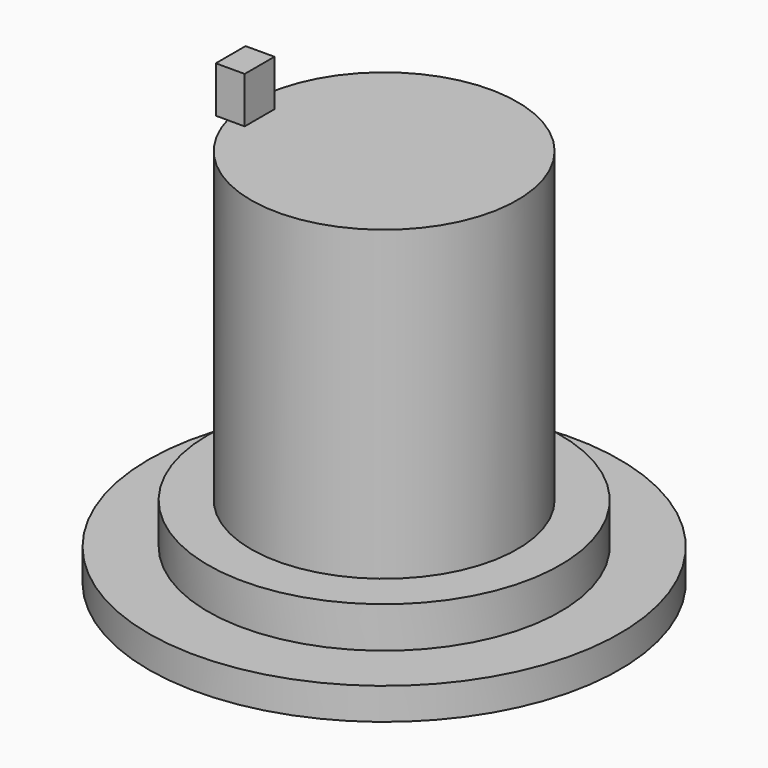
from build123d import *

# Parameters (mm, degrees)
F0_W     = 13.63211
F0_H     = 31.458714
F2_W     = 2.956035
F2_H     = 4.729659
F3_DEPTH = 3.81


with BuildPart() as f1:
    # F0 (on Front) → F1 (revolve)
    with BuildSketch(Plane.XZ):
        with Locations((-6.816055, 23.174587)):
            Rectangle(F0_W, F0_H)
        Polygon((-18.03633, 3.250734), (0, 3.250734), (0, 7.44523), (-13.63211, 7.44523), (-18.03633, 7.44523), align=None)
        Polygon((-24.118349, 0), (0, 0), (0, 3.250734), (-18.03633, 3.250734), (-24.118349, 3.250734), align=None)
    revolve(axis=Axis((0, 0, 23.174587), (0, 0, 1)))


with BuildPart() as f3:
    # F2 (on Front) → F3 (new body)
    with BuildSketch(Plane.XZ):
        with Locations((-12.710948, 41.384484)):
            Rectangle(F2_W, F2_H)
    extrude(amount=F3_DEPTH)


solid = Compound([f1.part, f3.part])
